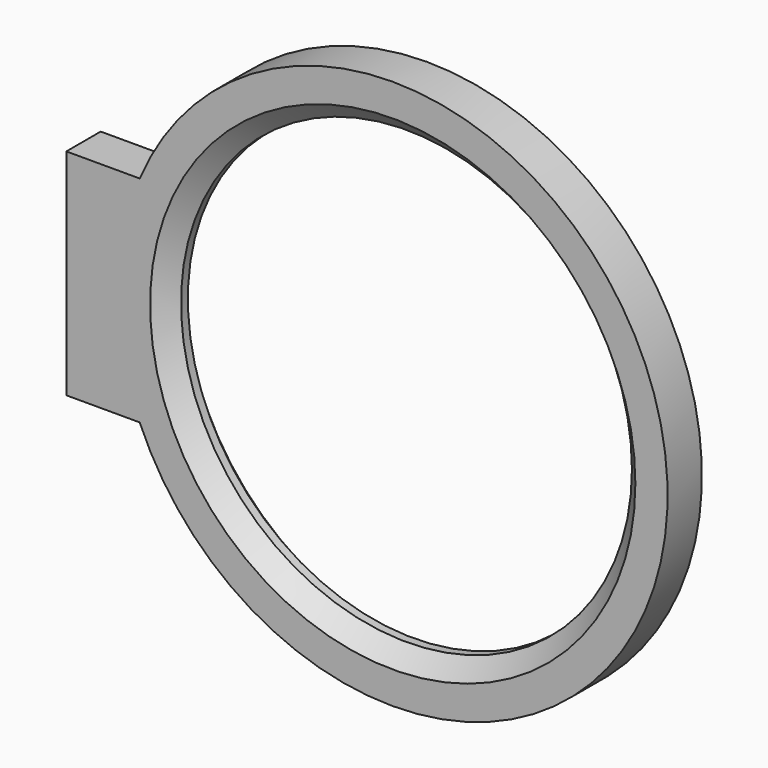
from build123d import *

# Parameters (mm, degrees)
F0_R     = 166.6875
F1_DEPTH = 31.75
F2_SIZE  = 12.7


with BuildPart() as f1:
    # F0 (on Front) → F1 (new body)
    with BuildSketch(Plane.XZ):
        with BuildLine():
            Line((-241.3, -79.375), (-187.055739, -79.375))
            ThreePointArc((-187.055739, -79.375), (203.2, 0), (-187.055739, 79.375))
            Line((-187.055739, 79.375), (-241.3, 79.375))
            Line((-241.3, 79.375), (-241.3, -79.375))
        make_face()
        Circle(F0_R, mode=Mode.SUBTRACT)
    extrude(amount=F1_DEPTH)

    # F2
    f2_edges = [f1.edges().sort_by_distance(p)[0] for p in [
        (-166.6875, -31.75, 0),
        (-166.6875, 0, 0),
    ]]
    chamfer(f2_edges, length=F2_SIZE)


solid = f1.part
